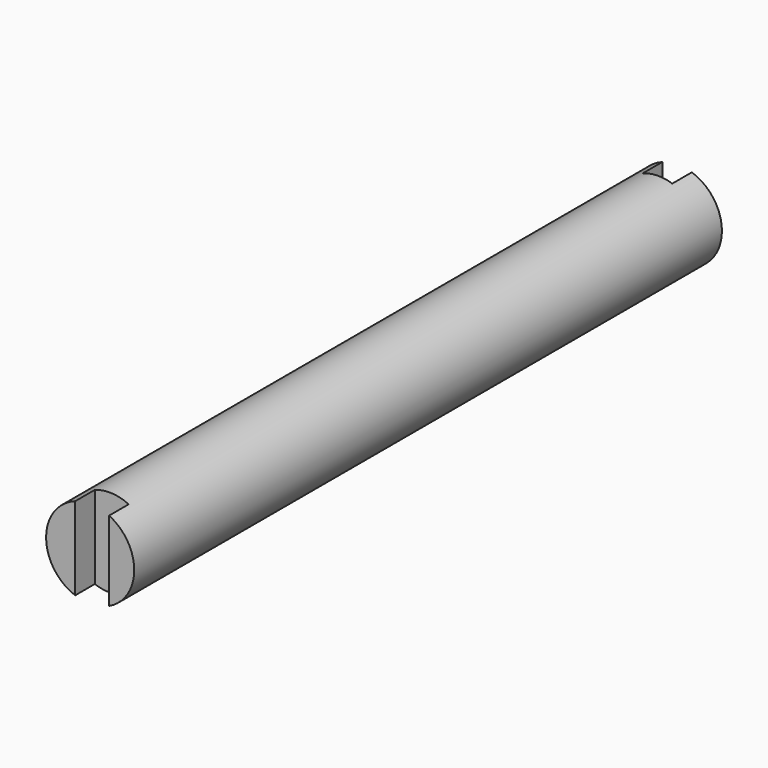
from build123d import *

# Parameters (mm, degrees)
F0_R     = 4.572
F1_DEPTH = 76.2
F3_DEPTH = 2.54
F5_DEPTH = 2.54


with BuildPart() as f1:
    # F0 (on Front) → F1 (new body)
    with BuildSketch(Plane.XZ):
        Circle(F0_R)
    extrude(amount=F1_DEPTH)

    # F2 (on face) → F3 (cut)
    with BuildSketch(Plane.XZ.offset(76.2)):
        with BuildLine():
            Line((1.9650808536, 8.0974539742), (-1.5526660718, 8.0974539742))
            Line((-1.5526660718, 8.0974539742), (-1.5526660718, 4.300280464))
            ThreePointArc((-1.5526660718, 4.300280464), (0.2234468976, 4.5665364867), (1.9650808536, 4.128152279))
            Line((1.9650808536, 4.128152279), (1.9650808536, 8.0974539742))
        make_face()
        with BuildLine():
            ThreePointArc((1.9650808536, -4.128152279), (0.2234468976, -4.5665364867), (-1.5526660718, -4.300280464))
            Line((-1.5526660718, -4.300280464), (-1.5526660718, -7.655933965))
            Line((-1.5526660718, -7.655933965), (1.9650808536, -7.655933965))
            Line((1.9650808536, -7.655933965), (1.9650808536, -4.128152279))
        make_face()
        with BuildLine():
            ThreePointArc((1.9650808536, 4.128152279), (0.2234468976, 4.5665364867), (-1.5526660718, 4.300280464))
            Line((-1.5526660718, 4.300280464), (-1.5526660718, -4.300280464))
            ThreePointArc((-1.5526660718, -4.300280464), (0.2234468976, -4.5665364867), (1.9650808536, -4.128152279))
            Line((1.9650808536, -4.128152279), (1.9650808536, 4.128152279))
        make_face()
    extrude(amount=-F3_DEPTH, mode=Mode.SUBTRACT)

    # F4 (on face) → F5 (cut)
    with BuildSketch(Plane(origin=(0, 0, 0), x_dir=(-1, 0, 0), z_dir=(0, 1, 0))):
        with BuildLine():
            ThreePointArc((1.6067995457, 4.2803480256), (0.082074117, 4.5712632652), (-1.4521116391, 4.3352688253))
            Line((-1.4521116391, 4.3352688253), (-1.4521116391, -4.3352688253))
            ThreePointArc((-1.4521116391, -4.3352688253), (0.082074117, -4.5712632652), (1.6067995457, -4.2803480256))
            Line((1.6067995457, -4.2803480256), (1.6067995457, 4.2803480256))
        make_face()
    extrude(amount=-F5_DEPTH, mode=Mode.SUBTRACT)


solid = f1.part
